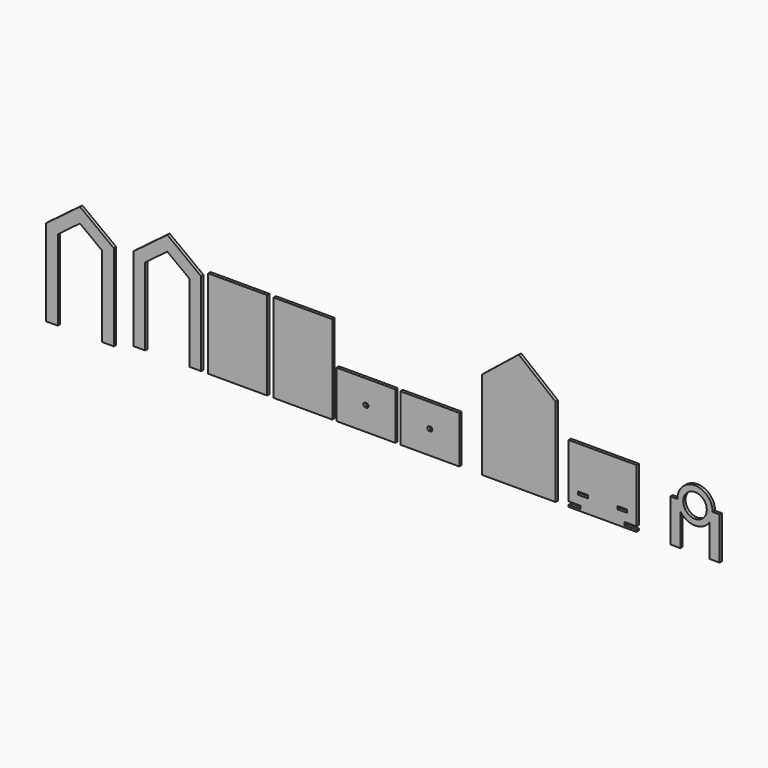
from build123d import *

# Parameters (mm, degrees)
F1_DEPTH = 3
F2_W     = 60
F2_H     = 90
F2_H_2   = 48
F2_W_2   = 10
F2_H_3   = 3
F2_R     = 12
F3_DEPTH = 3


with BuildPart() as f1:
    # F0 (on Front) → F1 (new body)
    with BuildSketch(Plane.XZ):
        Polygon((0, 85), (0, 0), (12, 0), (12, 79.017351), (34.5, 95.973873), (57, 79.017351), (57, 0), (69, 0), (69, 85), (34.5, 111), align=None)
        Polygon((-88.929259, 81.290118), (-88.929259, -3.709882), (-88.929259, -6.709882), (-76.929259, -6.709882), (-76.929259, -4.611619), (-76.929259, -3.709882), (-76.929259, 75.307469), (-54.429259, 92.263991), (-31.929259, 75.307469), (-31.929259, -3.709882), (-31.929259, -6.709882), (-19.929259, -6.709882), (-19.929259, -4.611619), (-19.929259, 81.290118), (-54.429259, 107.290118), align=None)
    extrude(amount=F1_DEPTH)


with BuildPart() as f3:
    # F2 (on Front) → F3 (new body)
    with BuildSketch(Plane.XZ):
        with Locations((106.181309, 45)):
            Rectangle(F2_W, F2_H)
        with Locations((172.576878, 45)):
            Rectangle(F2_W, F2_H)
        with Locations((236.746966, 24)):
            Rectangle(F2_W, F2_H_2)
        with BuildLine():
            ThreePointArc((238.063922, 26.125), (239.246966, 24), (238.063922, 21.875))
            Line((238.063922, 21.875), (235.430009, 21.875))
            ThreePointArc((235.430009, 21.875), (234.246966, 24), (235.430009, 26.125))
            Line((235.430009, 26.125), (238.063922, 26.125))
        make_face(mode=Mode.SUBTRACT)
        with Locations((301.794349, 24)):
            Rectangle(F2_W, F2_H_2)
        with BuildLine():
            ThreePointArc((300.477392, 21.875), (299.294349, 24), (300.477392, 26.125))
            Line((300.477392, 26.125), (303.111306, 26.125))
            ThreePointArc((303.111306, 26.125), (304.294349, 24), (303.111306, 21.875))
            Line((303.111306, 21.875), (300.477392, 21.875))
        make_face(mode=Mode.SUBTRACT)
        Polygon((354.915947, 90), (354.915947, 0), (429.915947, 0), (429.915947, 90), (392.415947, 120), align=None)
        Polygon((443.223119, 2), (443.223119, 0), (512.223119, 0), (512.223119, 2), (500.223119, 2), (500.223119, 5), (512.223119, 5), (512.223119, 60), (443.223119, 60), (443.223119, 5), (455.223119, 5), (455.223119, 2), align=None)
        with Locations((457.723119, 15.5)):
            Rectangle(F2_W_2, F2_H_3, mode=Mode.SUBTRACT)
        with Locations((497.723119, 15.5)):
            Rectangle(F2_W_2, F2_H_3, mode=Mode.SUBTRACT)
        with BuildLine():
            Line((556.839058, 0), (556.839058, 33.184986))
            ThreePointArc((556.839058, 33.184986), (571.839058, 25.134861), (586.839058, 33.184986))
            Line((586.839058, 33.184986), (586.839058, 0))
            Line((586.839058, 0), (596.839058, 0))
            Line((596.839058, 0), (596.839058, 43.134861))
            Line((596.839058, 43.134861), (589.839058, 43.134861))
            ThreePointArc((589.839058, 43.134861), (571.839058, 61.134861), (553.839058, 43.134861))
            Line((553.839058, 43.134861), (546.839058, 43.134861))
            Line((546.839058, 43.134861), (546.839058, 0))
            Line((546.839058, 0), (556.839058, 0))
        make_face()
        with Locations((571.839058, 43.134861)):
            Circle(F2_R, mode=Mode.SUBTRACT)
    extrude(amount=F3_DEPTH)


solid = Compound([f1.part, f3.part])
